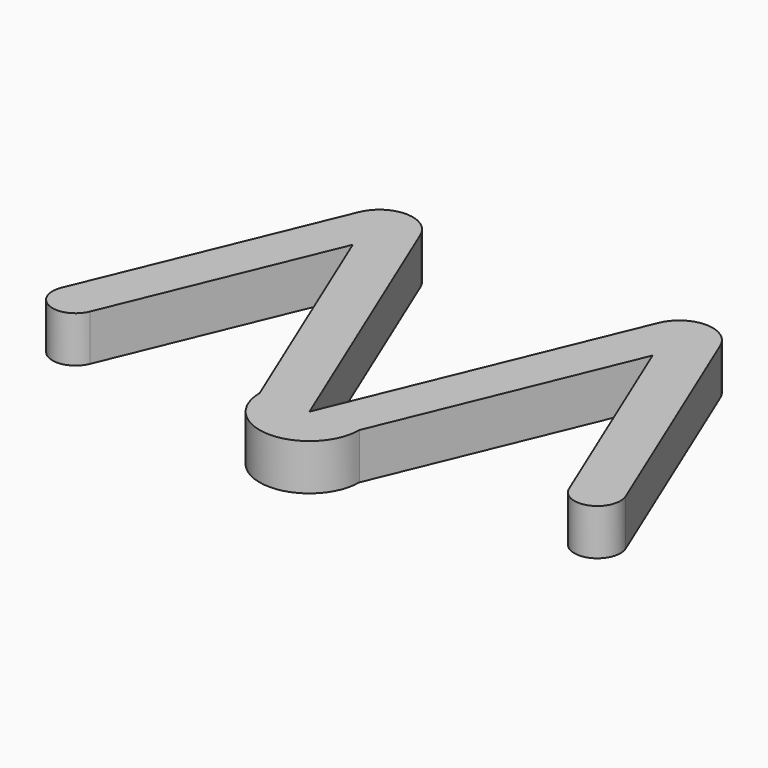
from build123d import *

# Parameters (mm, degrees)
F1_DEPTH = 2


with BuildPart() as f1:
    # F0 (on Top) → F1 (new body)
    with BuildSketch(Plane.XY):
        with BuildLine():
            Line((5.169261, 12.4797), (0, 0))
            Line((0, 0), (-5.169261, 12.4797))
            ThreePointArc((-5.169261, 12.4797), (-6.505618, 13.372626), (-7.841976, 12.4797))
            Line((-7.841976, 12.4797), (-12.24587, 1.847759))
            ThreePointArc((-12.24587, 1.847759), (-11.704674, 0.541196), (-10.398111, 1.082392))
            Line((-10.398111, 1.082392), (-6.505618, 10.4797))
            Line((-6.505618, 10.4797), (-2.164784, 0))
            ThreePointArc((-2.164784, 0), (0, -2.164784), (2.164784, 0))
            Line((2.164784, 0), (6.505618, 10.4797))
            Line((6.505618, 10.4797), (10.398111, 1.082392))
            ThreePointArc((10.398111, 1.082392), (10.939307, 0.541196), (11.704674, 0.541196))
            ThreePointArc((11.704674, 0.541196), (12.24587, 1.082392), (12.24587, 1.847759))
            Line((12.24587, 1.847759), (7.841976, 12.4797))
            ThreePointArc((7.841976, 12.4797), (6.505618, 13.372626), (5.169261, 12.4797))
        make_face()
    extrude(amount=F1_DEPTH)


solid = f1.part
